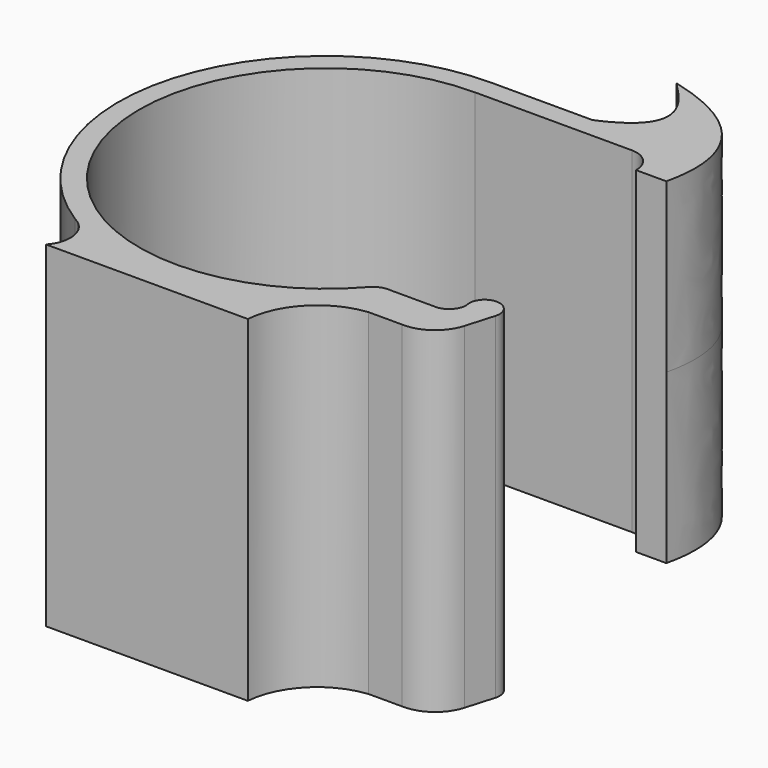
from build123d import *

# Parameters (mm, degrees)
F1_DEPTH = 15


with BuildPart() as f1:
    # F0 (on Top) → F1 (new body, symmetric)
    with BuildSketch(Plane.XY):
        with BuildLine():
            ThreePointArc((12.562231, -10.927619), (-15.152019, -6.902088), (0, 16.65))
            Line((0, 16.65), (14, 16.65))
            ThreePointArc((14, 16.65), (15.5, 16.01501), (16.088171, 14.496041))
            Line((16.088171, 14.496041), (18.793797, 14.496041))
            add(Edge.make_bspline(
                [(10.105219, 26.496041), (18.016234, 24.516107), (20.053543, 19.857231), (18.793797, 14.496041)],
                knots=[0, 0, 0, 0, 14.815242, 14.815242, 14.815242, 14.815242], degree=3))
            add(Edge.make_bspline(
                [(10.105219, 26.496041), (12.580878, 24.072407), (15.021241, 21.072751), (9, 18.5)],
                knots=[0, 0, 0, 0, 8.072061, 8.072061, 8.072061, 8.072061], degree=3))
            Line((9, 18.5), (0, 18.5))
            ThreePointArc((0, 18.5), (-17.775458, 5.126704), (-9.851839, -15.658585))
            ThreePointArc((-9.851839, -15.658585), (-9.609354, -15.789858), (-9.381345, -15.944917))
            ThreePointArc((-9.381345, -15.944917), (-8.310595, -17.863662), (-9, -19.95))
            Line((-9, -19.95), (9, -19.95))
            ThreePointArc((9, -19.95), (10.869586, -15.862711), (14.907399, -13.888538))
            Line((14.907399, -13.888538), (17.907399, -13.888538))
            ThreePointArc((17.907399, -13.888538), (20.110659, -13.224193), (21.440358, -11.345999))
            Line((21.440358, -11.345999), (22.189979, -8.788404))
            ThreePointArc((22.189979, -8.788404), (20.902351, -7.06921), (19.614723, -8.788404))
            ThreePointArc((19.614723, -8.788404), (19.086815, -9.963811), (17.857542, -10.35002))
            Line((17.857542, -10.35002), (14.042224, -10.35002))
            ThreePointArc((14.042224, -10.35002), (13.231128, -10.456638), (12.562231, -10.927619))
        make_face()
        with BuildLine():
            ThreePointArc((-9.381345, -15.944917), (-9.609354, -15.789858), (-9.851839, -15.658585))
            ThreePointArc((-9.851839, -15.658585), (-9.617657, -15.803502), (-9.381345, -15.944917))
        make_face()
    extrude(amount=F1_DEPTH, both=True)


solid = f1.part
